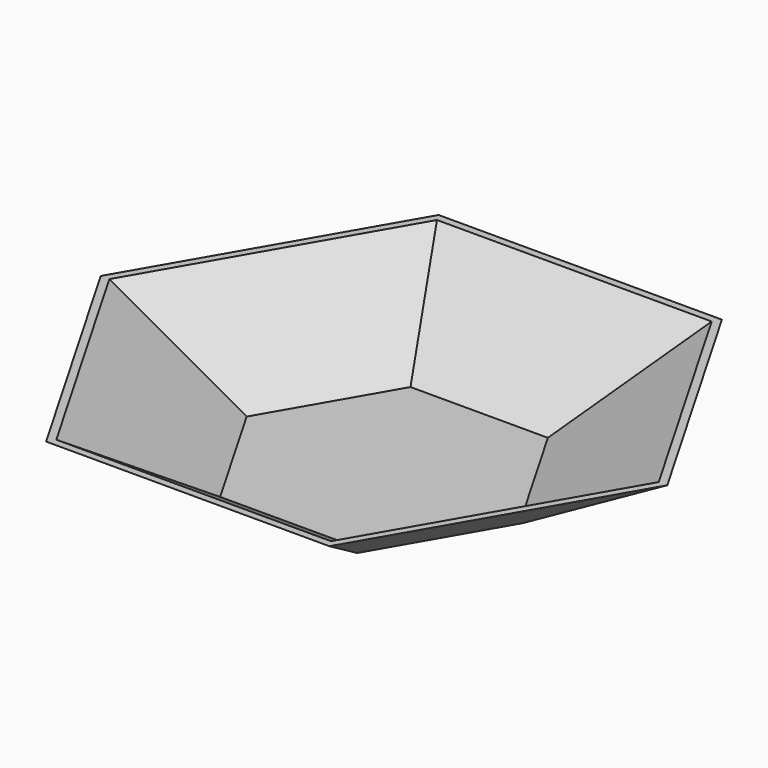
from build123d import *

# Parameters (mm, degrees)
F1_DEPTH = 50
F1_TAPER = -57.2957795131
F2_T     = -2.5


with BuildPart() as f1:
    # F0 (on Top) → F1 (new body)
    with BuildSketch(Plane.XY):
        Polygon((86.2984904265, 0), (43.1492452133, 74.7366850176), (-43.1492452133, 74.7366850176), (-86.2984904265, 0), (-43.1492452133, -74.7366850176), (43.1492452133, -74.7366850176), align=None)
    extrude(amount=F1_DEPTH, taper=F1_TAPER)

    # F2
    f2_openings = [f1.faces().sort_by_distance(p)[0] for p in [
        (0, 0, 50),
    ]]
    offset(amount=F2_T, openings=f2_openings, kind=Kind.INTERSECTION)


solid = f1.part
